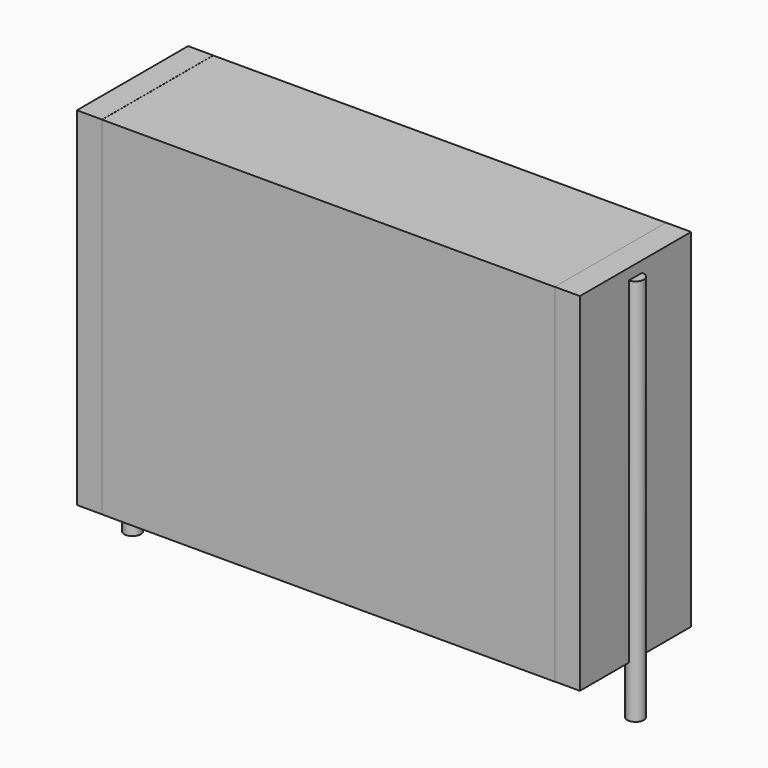
from build123d import *

# Parameters (mm, degrees)
SKETCH_W          = 24.75
SKETCH_H          = 7.6
PAD_DEPTH         = 19
SKETCH001_R       = 0.45
PAD001_DEPTH      = 18
PAD001_DEPTH_BACK = 3.2
SKETCH002_W       = 1.375
SKETCH002_H       = 7.6
PAD002_DEPTH      = 19


with BuildPart() as pad:
    # Sketch → Pad (new body)
    with BuildSketch(Plane.XY.offset(0.1)):
        with Locations((13.75, 0)):
            Rectangle(SKETCH_W, SKETCH_H)
    extrude(amount=PAD_DEPTH)


with BuildPart() as pad001:
    # Sketch001 → Pad001 (new body, two sides)
    with BuildSketch(Plane.XY.offset(0.5)) as pad001_sk:
        Circle(SKETCH001_R)
        with Locations((27.5, 0)):
            Circle(SKETCH001_R)
    extrude(amount=PAD001_DEPTH)
    extrude(pad001_sk.sketch, amount=-PAD001_DEPTH_BACK)


with BuildPart() as pad002:
    # Sketch002 → Pad002 (new body)
    with BuildSketch(Plane.XY.offset(0.105)):
        with Locations((0.6875, 0)):
            Rectangle(SKETCH002_W, SKETCH002_H)
        with Locations((26.8125, 0)):
            Rectangle(SKETCH002_W, SKETCH002_H)
    extrude(amount=PAD002_DEPTH)


solid = Compound([pad.part, pad001.part, pad002.part])
